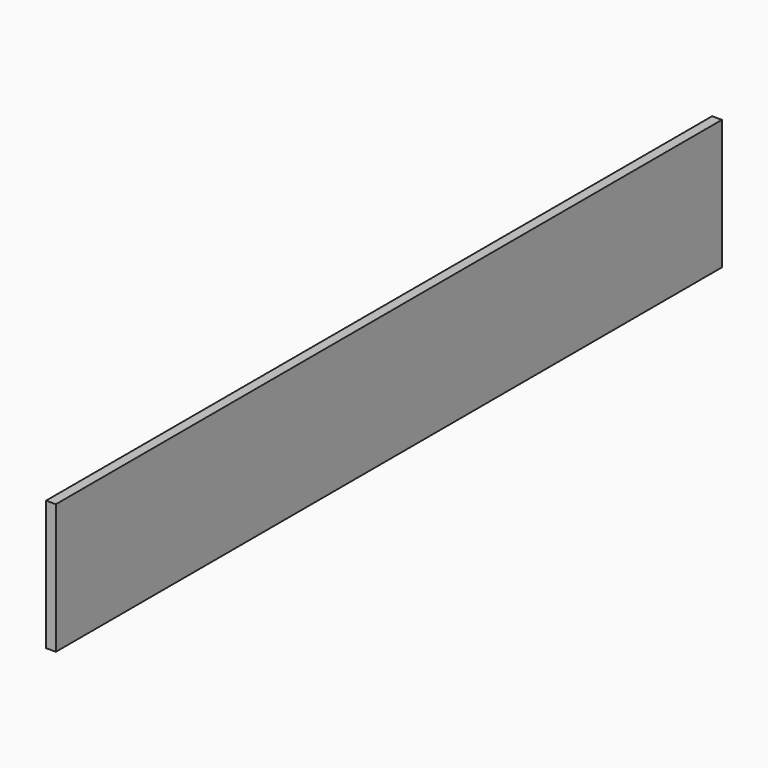
from build123d import *

# Parameters (mm, degrees)
F0_W     = 5859.30502
F0_H     = 914.4
F1_DEPTH = 69.135625
F2_SCALE = 0.0114810563


with BuildPart() as f1:
    # F0 (on Right) → F1 (new body)
    with BuildSketch(Plane.YZ):
        with Locations((2929.65251, 457.2)):
            Rectangle(F0_W, F0_H)
    extrude(amount=F1_DEPTH)


with BuildPart() as f1_1:
    # F2: moved
    add(f1.part.scale(F2_SCALE))


solid = f1_1.part
